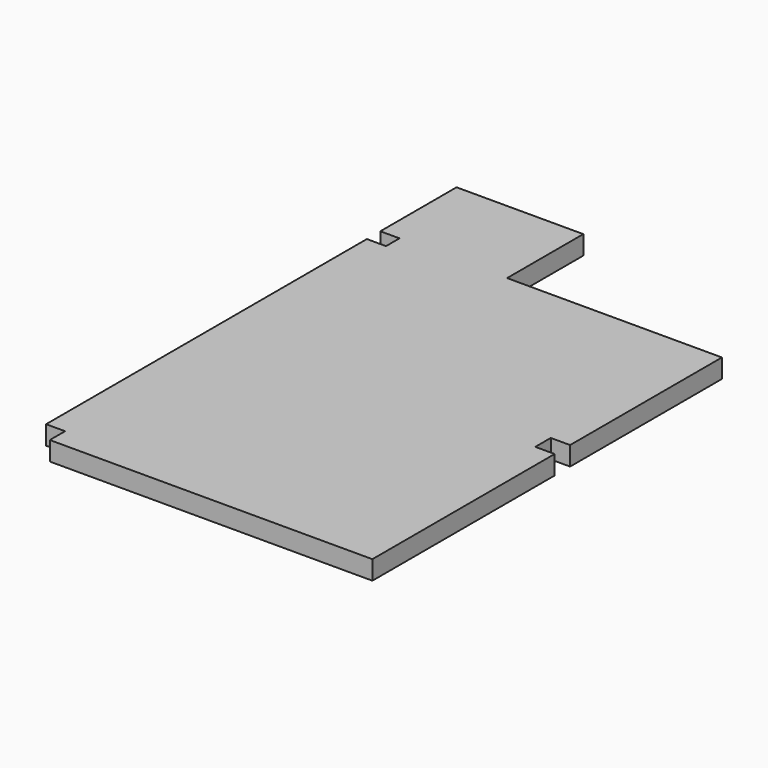
from build123d import *

# Parameters (mm, degrees)
F1_DEPTH = 7.62


with BuildPart() as f1:
    # F0 (on Top) → F1 (new body)
    with BuildSketch(Plane.XY):
        Polygon((-11.368327, 47.344048), (-62.309947, 47.344048), (-62.309947, 9.065881), (-54.605559, 9.065881), (-54.605559, 2.285567), (-62.310651, 2.285567), (-62.310651, -158.860683), (-54.67879, -158.860683), (-54.67879, -166.533843), (-52.084383, -166.533843), (74.973397, -166.533843), (74.973397, -74.973397), (67.20265, -74.973397), (67.20265, -67.20265), (74.973397, -67.20265), (74.973397, 9.065881), (-11.368327, 9.065881), align=None)
    extrude(amount=F1_DEPTH)


solid = f1.part
